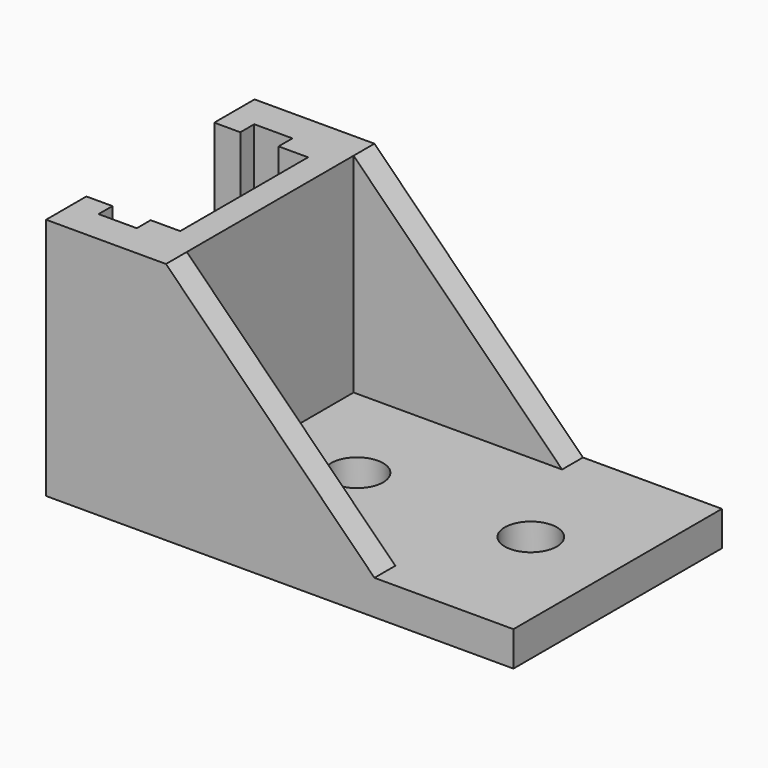
from build123d import *

# Parameters (mm, degrees)
CYLINDER001_R     = 1.5
CYLINDER001_DEPTH = 10
CYLINDER_R        = 1.5
CYLINDER_DEPTH    = 10
BOX_W             = 20
BOX_H             = 15
BOX_DEPTH         = 2
PAD_DEPTH         = 14
PAD002_DEPTH      = 1.5
PAD003_DEPTH      = 1.5


with BuildPart() as cylinder001:
    # Cylinder001 → Cylinder001 (new body)
    with BuildSketch(Plane(origin=(15, 7.5, 0), x_dir=(1, 0, 0), z_dir=(0, 0, 1))):
        Circle(CYLINDER001_R)
    extrude(amount=CYLINDER001_DEPTH)


with BuildPart() as cylinder:
    # Cylinder → Cylinder (new body)
    with BuildSketch(Plane(origin=(5, 7.5, 0), x_dir=(1, 0, 0), z_dir=(0, 0, 1))):
        Circle(CYLINDER_R)
    extrude(amount=CYLINDER_DEPTH)


with BuildPart() as cut001:
    # Box → Box (new body)
    with BuildSketch(Plane.XY):
        with Locations((10, 7.5)):
            Rectangle(BOX_W, BOX_H)
    extrude(amount=BOX_DEPTH)

    # Cut: cut Cylinder
    add(cylinder.part, mode=Mode.SUBTRACT)

    # Cut001: cut Cylinder001
    add(cylinder001.part, mode=Mode.SUBTRACT)


with BuildPart() as pad:
    # Sketch → Pad (new body)
    with BuildSketch(Plane.XY):
        Polygon((0, 15), (-6.9, 15), (-6.9, 12.1), (-5.4, 12.1), (-5.4, 13.1), (-3.2, 13.1), (-3.2, 12.1), (-1.5, 12.1), (-1.5, 2.9), (-3.2, 2.9), (-3.2, 1.9), (-5.4, 1.9), (-5.4, 2.9), (-6.9, 2.9), (-6.9, 0), (0, 0), align=None)
    extrude(amount=PAD_DEPTH)


with BuildPart() as pad002:
    # Sketch001 → Pad002 (new body)
    with BuildSketch(Plane.XZ.offset(-15)):
        Polygon((0, 14), (12, 2), (0, 2), align=None)
    extrude(amount=PAD002_DEPTH)


with BuildPart() as fusion:
    # Sketch002 → Pad003 (new body)
    with BuildSketch(Plane.XZ.offset(-1.5)):
        Polygon((0, 14), (12, 2), (0, 2), align=None)
    extrude(amount=PAD003_DEPTH)

    # Fusion: union Cut001, Pad, Pad002
    add(cut001.part)
    add(pad.part)
    add(pad002.part)


solid = fusion.part
